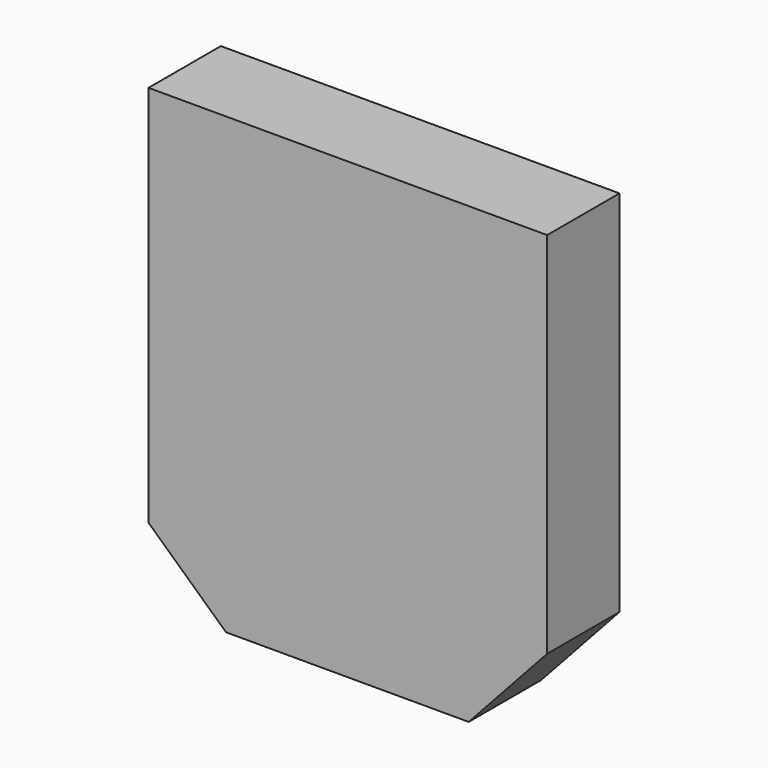
from build123d import *

# Parameters (mm, degrees)
F2_DEPTH = 25


with BuildPart() as f2:
    # F1 (on face) → F2 (new body)
    with BuildSketch(Plane.XZ):
        Polygon((19.5, 28.8766958117), (-90.7602548171, 28.8766958117), (-90.7602548171, -77.0238212563), (-69.3126782044, -96.7205752883), (-2.1988731881, -96.7205752883), (19.5, -73.0591952168), align=None)
    extrude(amount=F2_DEPTH)


solid = f2.part
